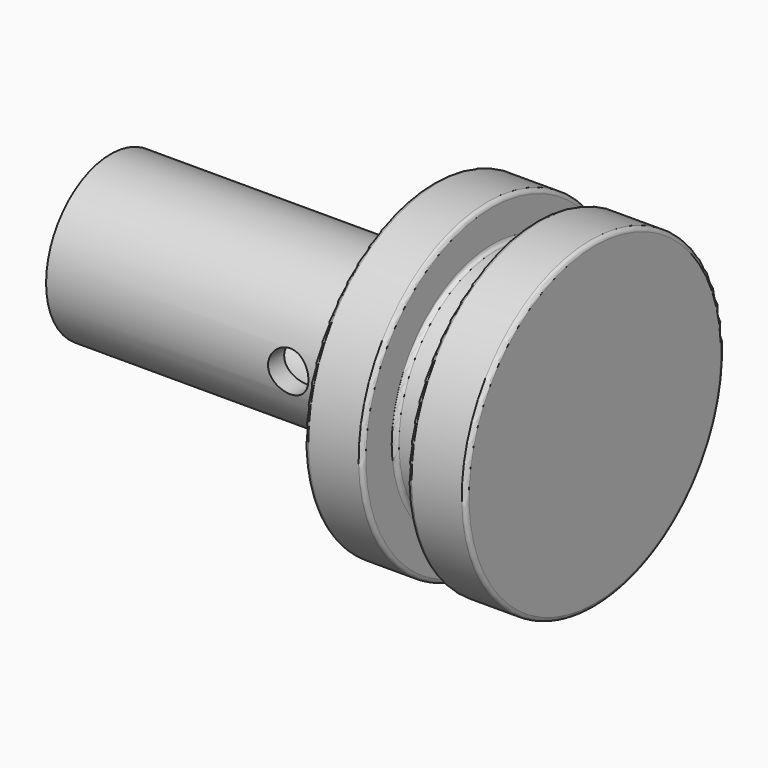
from build123d import *

# Parameters (mm, degrees)
F2_R     = 0.3175
F3_R     = 6.35
F3_R_2   = 4.7625
F4_DEPTH = 25.4
F5_R     = 1.5875
F6_DEPTH = 12.7


with BuildPart() as f1:
    # F0 (on Front) → F1 (revolve)
    with BuildSketch(Plane.XZ):
        Polygon((-49.5116594105, -19.9887029331), (-49.5116594105, -32.6887029331), (-36.8116594105, -32.6887029331), (-36.8116594105, -19.9887029331), (-41.3963594105, -19.9887029331), (-41.3963594105, -23.1637029331), (-44.9269594105, -23.1637029331), (-44.9269594105, -19.9887029331), align=None)
    revolve(axis=Axis((-43.1616594105, 0, -32.6887029331), (1, 0, 0)))

    # F2
    f2_edges = [f1.edges().sort_by_distance(p)[0] for p in [
        (-36.811659, 0, -45.388703),
        (-41.396359, 0, -45.388703),
        (-44.926959, 0, -45.388703),
        (-49.511659, 0, -45.388703),
        (-44.926959, 0, -42.213703),
        (-41.396359, 0, -42.213703),
    ]]
    fillet(f2_edges, radius=F2_R)

    # F3 (on face) → F4 (join)
    with BuildSketch(Plane(origin=(-49.5116594105, 0, 0), x_dir=(0, -1, 0), z_dir=(-1, 0, 0))):
        with Locations((0, -32.6887029331)):
            Circle(F3_R)
        with Locations((0, -32.6887029331)):
            Circle(F3_R_2, mode=Mode.SUBTRACT)
    extrude(amount=F4_DEPTH)

    # F5 (on Front) → F6 (cut, symmetric)
    with BuildSketch(Plane.XZ):
        with Locations((-55.8616594105, -32.6887629926)):
            Circle(F5_R)
    extrude(amount=F6_DEPTH, both=True, mode=Mode.SUBTRACT)


solid = f1.part
